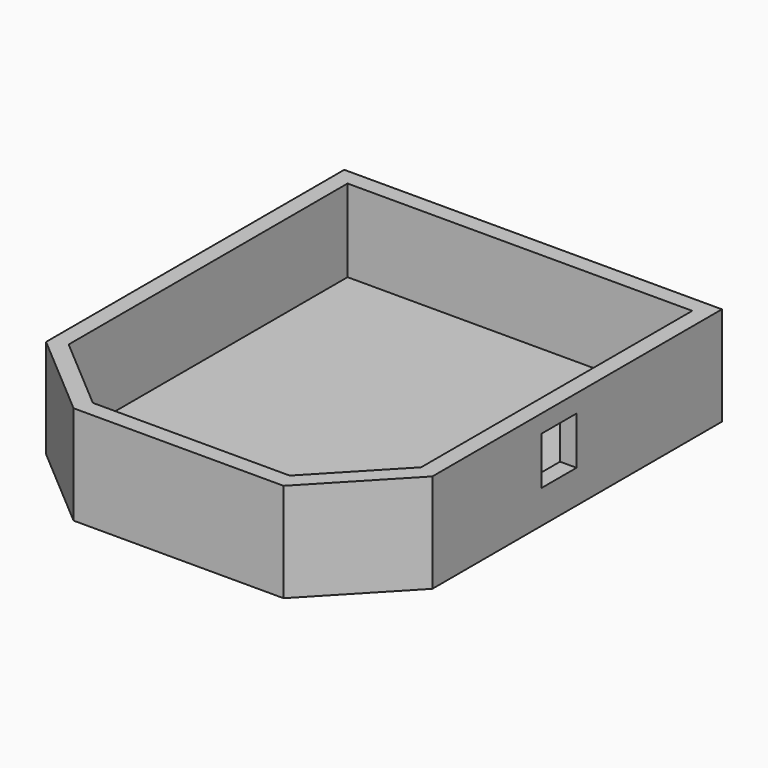
from build123d import *

# Parameters (mm, degrees)
F1_DEPTH = 5
F3_DEPTH = 25
F5_W     = 13.2
F5_H     = 14.5
F6_DEPTH = 25


with BuildPart() as f1:
    # F0 (on Top) → F1 (new body)
    with BuildSketch(Plane.XY):
        Polygon((61.500478, 54.866199), (-52.999522, 54.866199), (-52.999522, -58.133801), (-26.674904, -80.633801), (37.000478, -80.633801), (61.500478, -54.867481), align=None)
    extrude(amount=F1_DEPTH)

    # F2 (on face) → F3 (join)
    with BuildSketch(Plane.XY.offset(5)):
        Polygon((37.000478, -80.633801), (61.500478, -54.867481), (61.500478, 54.866199), (-52.999522, 54.866199), (-52.999522, -58.133801), (-26.674904, -80.633801), align=None)
        Polygon((-47.999522, -55.829878), (-47.999522, 49.866199), (56.500478, 49.866199), (56.500478, -52.869805), (34.855248, -75.633801), (-24.829268, -75.633801), align=None, mode=Mode.SUBTRACT)
    extrude(amount=F3_DEPTH)

    # F5 (on face) → F6 (cut)
    with BuildSketch(Plane.YZ.offset(61.500478)):
        with Locations((-6.826305, 17.346862)):
            Rectangle(F5_W, F5_H)
    extrude(amount=-F6_DEPTH, mode=Mode.SUBTRACT)


solid = f1.part
